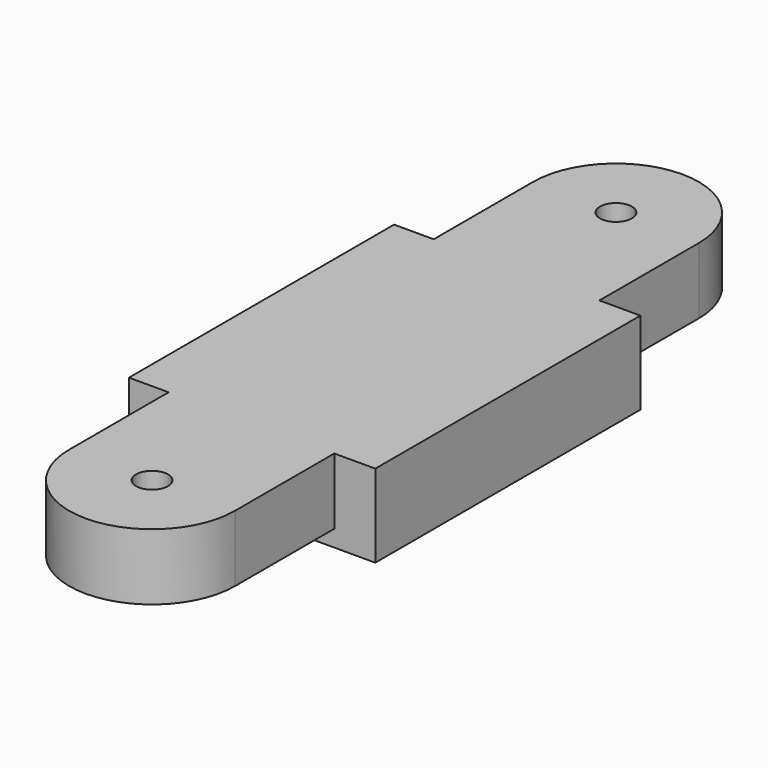
from build123d import *

# Parameters (mm, degrees)
SKETCH001_R  = 0.965047
PAD_DEPTH    = 4
SKETCH_W     = 14.86762
SKETCH_H     = 20
PAD001_DEPTH = 5


with BuildPart() as part:
    # Sketch001 → Pad (new body)
    with BuildSketch(Plane.XY):
        with BuildLine():
            ThreePointArc((-5, -17.500002), (0, -22.500002), (5, -17.500002))
            Line((5, -17.500002), (5, 0))
            Line((5, 0), (5, 17.500002))
            ThreePointArc((5, 17.500002), (-2e-06, 22.499991), (-5, 17.499998))
            Line((-5, -17.500002), (-5, 17.499998))
        make_face()
        with Locations((0, 17.499991)):
            Circle(SKETCH001_R, mode=Mode.SUBTRACT)
        with Locations((0, -17.500002)):
            Circle(SKETCH001_R, mode=Mode.SUBTRACT)
    extrude(amount=PAD_DEPTH)

    # Sketch (on Face7 of Pad) → Pad001 (join)
    with BuildSketch(Plane.XY.offset(4)):
        with Locations((0.040686, 0)):
            Rectangle(SKETCH_W, SKETCH_H)
    extrude(amount=-PAD001_DEPTH)


solid = part.part
